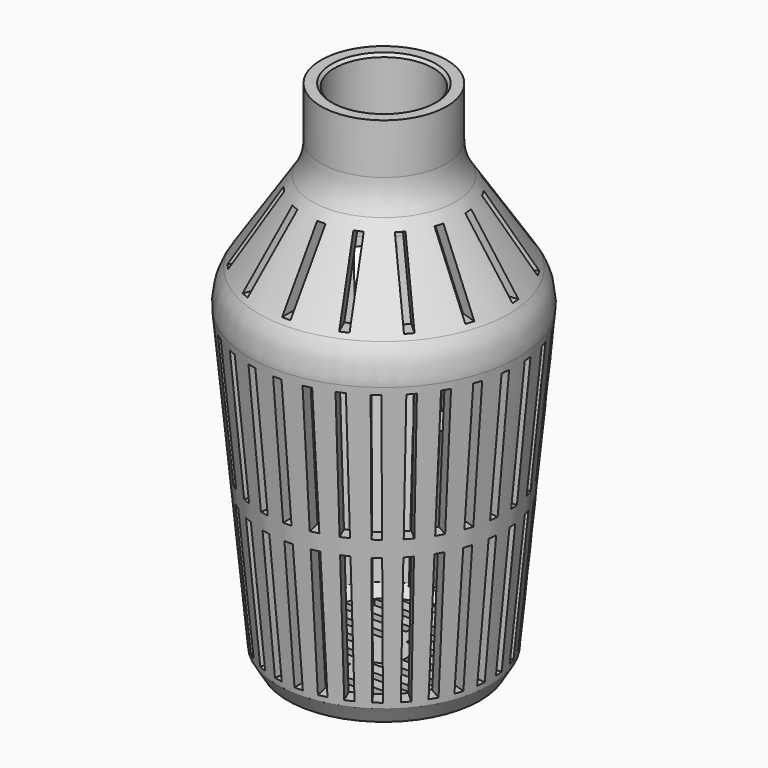
from build123d import *

# Parameters (mm, degrees)
F2_W      = 1.5
F2_H      = 24
F3_DEPTH  = 30
F4_COUNT  = 30
F6_W      = 1.5
F6_H      = 12
F7_DEPTH  = 30
F8_COUNT  = 15
F11_DEPTH = 10
F12_SIZE  = 0.5


with BuildPart() as f1:
    # F0 (on Front) → F1 (revolve)
    with BuildSketch(Plane.XZ):
        with BuildLine():
            Line((0, 2.4), (0, 0))
            Line((0, 0), (17.211747, 0))
            Line((17.211747, 0), (19, 3))
            Line((19, 3), (24, 56.256358))
            ThreePointArc((24, 56.256358), (23.750638, 59.594634), (22.413501, 62.663563))
            Line((22.413501, 62.663563), (12.880282, 77.243906))
            ThreePointArc((12.880282, 77.243906), (11.666233, 79.861299), (11.25, 82.716367))
            Line((11.25, 82.716367), (11.25, 91.737301))
            Line((11.25, 91.737301), (8.85, 91.737301))
            Line((8.85, 91.737301), (8.85, 81.737301))
            Line((8.85, 81.737301), (7.999151, 81.737301))
            ThreePointArc((7.999151, 81.737301), (7.559372, 81.475196), (7.580665, 80.963678))
            Line((7.580665, 80.963678), (20.404769, 61.350173))
            ThreePointArc((20.404769, 61.350173), (21.420993, 59.017786), (21.610508, 56.480697))
            Line((21.610508, 56.480697), (16.720886, 4.4))
            Line((16.720886, 4.4), (15.528717, 2.4))
            Line((15.528717, 2.4), (0, 2.4))
        make_face()
    revolve(axis=Axis((0, 0, 50), (0, 0, 1)))


with BuildPart() as f3:
    # F2 (on Front) → F3 (new body)
    with BuildSketch(Plane.XZ):
        with Locations((0, 16)):
            Rectangle(F2_W, F2_H)
        with Locations((0, 43)):
            Rectangle(F2_W, F2_H)
    extrude(amount=-F3_DEPTH)


with BuildPart() as f4_1:
    # F4: instance of F3
    add(f3.part.rotate(Axis((0, 0, 50), (0, 0, 1)), 1 * 360 / F4_COUNT))


with BuildPart() as f4_2:
    # F4: instance of F3
    add(f3.part.rotate(Axis((0, 0, 50), (0, 0, 1)), 2 * 360 / F4_COUNT))


with BuildPart() as f4_3:
    # F4: instance of F3
    add(f3.part.rotate(Axis((0, 0, 50), (0, 0, 1)), 3 * 360 / F4_COUNT))


with BuildPart() as f4_4:
    # F4: instance of F3
    add(f3.part.rotate(Axis((0, 0, 50), (0, 0, 1)), 4 * 360 / F4_COUNT))


with BuildPart() as f4_5:
    # F4: instance of F3
    add(f3.part.rotate(Axis((0, 0, 50), (0, 0, 1)), 5 * 360 / F4_COUNT))


with BuildPart() as f4_6:
    # F4: instance of F3
    add(f3.part.rotate(Axis((0, 0, 50), (0, 0, 1)), 6 * 360 / F4_COUNT))


with BuildPart() as f4_7:
    # F4: instance of F3
    add(f3.part.rotate(Axis((0, 0, 50), (0, 0, 1)), 7 * 360 / F4_COUNT))


with BuildPart() as f4_8:
    # F4: instance of F3
    add(f3.part.rotate(Axis((0, 0, 50), (0, 0, 1)), 8 * 360 / F4_COUNT))


with BuildPart() as f4_9:
    # F4: instance of F3
    add(f3.part.rotate(Axis((0, 0, 50), (0, 0, 1)), 9 * 360 / F4_COUNT))


with BuildPart() as f4_10:
    # F4: instance of F3
    add(f3.part.rotate(Axis((0, 0, 50), (0, 0, 1)), 10 * 360 / F4_COUNT))


with BuildPart() as f4_11:
    # F4: instance of F3
    add(f3.part.rotate(Axis((0, 0, 50), (0, 0, 1)), 11 * 360 / F4_COUNT))


with BuildPart() as f4_12:
    # F4: instance of F3
    add(f3.part.rotate(Axis((0, 0, 50), (0, 0, 1)), 12 * 360 / F4_COUNT))


with BuildPart() as f4_13:
    # F4: instance of F3
    add(f3.part.rotate(Axis((0, 0, 50), (0, 0, 1)), 13 * 360 / F4_COUNT))


with BuildPart() as f4_14:
    # F4: instance of F3
    add(f3.part.rotate(Axis((0, 0, 50), (0, 0, 1)), 14 * 360 / F4_COUNT))


with BuildPart() as f4_15:
    # F4: instance of F3
    add(f3.part.rotate(Axis((0, 0, 50), (0, 0, 1)), 15 * 360 / F4_COUNT))


with BuildPart() as f4_16:
    # F4: instance of F3
    add(f3.part.rotate(Axis((0, 0, 50), (0, 0, 1)), 16 * 360 / F4_COUNT))


with BuildPart() as f4_17:
    # F4: instance of F3
    add(f3.part.rotate(Axis((0, 0, 50), (0, 0, 1)), 17 * 360 / F4_COUNT))


with BuildPart() as f4_18:
    # F4: instance of F3
    add(f3.part.rotate(Axis((0, 0, 50), (0, 0, 1)), 18 * 360 / F4_COUNT))


with BuildPart() as f4_19:
    # F4: instance of F3
    add(f3.part.rotate(Axis((0, 0, 50), (0, 0, 1)), 19 * 360 / F4_COUNT))


with BuildPart() as f4_20:
    # F4: instance of F3
    add(f3.part.rotate(Axis((0, 0, 50), (0, 0, 1)), 20 * 360 / F4_COUNT))


with BuildPart() as f4_21:
    # F4: instance of F3
    add(f3.part.rotate(Axis((0, 0, 50), (0, 0, 1)), 21 * 360 / F4_COUNT))


with BuildPart() as f4_22:
    # F4: instance of F3
    add(f3.part.rotate(Axis((0, 0, 50), (0, 0, 1)), 22 * 360 / F4_COUNT))


with BuildPart() as f4_23:
    # F4: instance of F3
    add(f3.part.rotate(Axis((0, 0, 50), (0, 0, 1)), 23 * 360 / F4_COUNT))


with BuildPart() as f4_24:
    # F4: instance of F3
    add(f3.part.rotate(Axis((0, 0, 50), (0, 0, 1)), 24 * 360 / F4_COUNT))


with BuildPart() as f4_25:
    # F4: instance of F3
    add(f3.part.rotate(Axis((0, 0, 50), (0, 0, 1)), 25 * 360 / F4_COUNT))


with BuildPart() as f4_26:
    # F4: instance of F3
    add(f3.part.rotate(Axis((0, 0, 50), (0, 0, 1)), 26 * 360 / F4_COUNT))


with BuildPart() as f4_27:
    # F4: instance of F3
    add(f3.part.rotate(Axis((0, 0, 50), (0, 0, 1)), 27 * 360 / F4_COUNT))


with BuildPart() as f4_28:
    # F4: instance of F3
    add(f3.part.rotate(Axis((0, 0, 50), (0, 0, 1)), 28 * 360 / F4_COUNT))


with BuildPart() as f4_29:
    # F4: instance of F3
    add(f3.part.rotate(Axis((0, 0, 50), (0, 0, 1)), 29 * 360 / F4_COUNT))


with BuildPart() as f1_1:
    add(f1.part)

    # F5: cut F3, F4_1, F4_2, F4_3, F4_4, F4_5, F4_6, F4_7, F4_8, F4_9, F4_10, F4_11, F4_12, F4_13, F4_14, F4_15, F4_16, F4_17, F4_18, F4_19, F4_20, F4_21, F4_22, F4_23, F4_24, F4_25, F4_26, F4_27, F4_28, F4_29
    add(f3.part, mode=Mode.SUBTRACT)
    add(f4_1.part, mode=Mode.SUBTRACT)
    add(f4_2.part, mode=Mode.SUBTRACT)
    add(f4_3.part, mode=Mode.SUBTRACT)
    add(f4_4.part, mode=Mode.SUBTRACT)
    add(f4_5.part, mode=Mode.SUBTRACT)
    add(f4_6.part, mode=Mode.SUBTRACT)
    add(f4_7.part, mode=Mode.SUBTRACT)
    add(f4_8.part, mode=Mode.SUBTRACT)
    add(f4_9.part, mode=Mode.SUBTRACT)
    add(f4_10.part, mode=Mode.SUBTRACT)
    add(f4_11.part, mode=Mode.SUBTRACT)
    add(f4_12.part, mode=Mode.SUBTRACT)
    add(f4_13.part, mode=Mode.SUBTRACT)
    add(f4_14.part, mode=Mode.SUBTRACT)
    add(f4_15.part, mode=Mode.SUBTRACT)
    add(f4_16.part, mode=Mode.SUBTRACT)
    add(f4_17.part, mode=Mode.SUBTRACT)
    add(f4_18.part, mode=Mode.SUBTRACT)
    add(f4_19.part, mode=Mode.SUBTRACT)
    add(f4_20.part, mode=Mode.SUBTRACT)
    add(f4_21.part, mode=Mode.SUBTRACT)
    add(f4_22.part, mode=Mode.SUBTRACT)
    add(f4_23.part, mode=Mode.SUBTRACT)
    add(f4_24.part, mode=Mode.SUBTRACT)
    add(f4_25.part, mode=Mode.SUBTRACT)
    add(f4_26.part, mode=Mode.SUBTRACT)
    add(f4_27.part, mode=Mode.SUBTRACT)
    add(f4_28.part, mode=Mode.SUBTRACT)
    add(f4_29.part, mode=Mode.SUBTRACT)


with BuildPart() as f7:
    # F6 (on Front) → F7 (new body)
    with BuildSketch(Plane.XZ):
        with Locations((0, 69.5)):
            Rectangle(F6_W, F6_H)
    extrude(amount=F7_DEPTH)


with BuildPart() as f8_1:
    # F8: instance of F7
    add(f7.part.rotate(Axis((0, 0, 50), (0, 0, 1)), 1 * 360 / F8_COUNT))


with BuildPart() as f8_2:
    # F8: instance of F7
    add(f7.part.rotate(Axis((0, 0, 50), (0, 0, 1)), 2 * 360 / F8_COUNT))


with BuildPart() as f8_3:
    # F8: instance of F7
    add(f7.part.rotate(Axis((0, 0, 50), (0, 0, 1)), 3 * 360 / F8_COUNT))


with BuildPart() as f8_4:
    # F8: instance of F7
    add(f7.part.rotate(Axis((0, 0, 50), (0, 0, 1)), 4 * 360 / F8_COUNT))


with BuildPart() as f8_5:
    # F8: instance of F7
    add(f7.part.rotate(Axis((0, 0, 50), (0, 0, 1)), 5 * 360 / F8_COUNT))


with BuildPart() as f8_6:
    # F8: instance of F7
    add(f7.part.rotate(Axis((0, 0, 50), (0, 0, 1)), 6 * 360 / F8_COUNT))


with BuildPart() as f8_7:
    # F8: instance of F7
    add(f7.part.rotate(Axis((0, 0, 50), (0, 0, 1)), 7 * 360 / F8_COUNT))


with BuildPart() as f8_8:
    # F8: instance of F7
    add(f7.part.rotate(Axis((0, 0, 50), (0, 0, 1)), 8 * 360 / F8_COUNT))


with BuildPart() as f8_9:
    # F8: instance of F7
    add(f7.part.rotate(Axis((0, 0, 50), (0, 0, 1)), 9 * 360 / F8_COUNT))


with BuildPart() as f8_10:
    # F8: instance of F7
    add(f7.part.rotate(Axis((0, 0, 50), (0, 0, 1)), 10 * 360 / F8_COUNT))


with BuildPart() as f8_11:
    # F8: instance of F7
    add(f7.part.rotate(Axis((0, 0, 50), (0, 0, 1)), 11 * 360 / F8_COUNT))


with BuildPart() as f8_12:
    # F8: instance of F7
    add(f7.part.rotate(Axis((0, 0, 50), (0, 0, 1)), 12 * 360 / F8_COUNT))


with BuildPart() as f8_13:
    # F8: instance of F7
    add(f7.part.rotate(Axis((0, 0, 50), (0, 0, 1)), 13 * 360 / F8_COUNT))


with BuildPart() as f8_14:
    # F8: instance of F7
    add(f7.part.rotate(Axis((0, 0, 50), (0, 0, 1)), 14 * 360 / F8_COUNT))


with BuildPart() as f1_2:
    add(f1_1.part)

    # F9: cut F7, F8_1, F8_2, F8_3, F8_4, F8_5, F8_6, F8_7, F8_8, F8_9, F8_10, F8_11, F8_12, F8_13, F8_14
    add(f7.part, mode=Mode.SUBTRACT)
    add(f8_1.part, mode=Mode.SUBTRACT)
    add(f8_2.part, mode=Mode.SUBTRACT)
    add(f8_3.part, mode=Mode.SUBTRACT)
    add(f8_4.part, mode=Mode.SUBTRACT)
    add(f8_5.part, mode=Mode.SUBTRACT)
    add(f8_6.part, mode=Mode.SUBTRACT)
    add(f8_7.part, mode=Mode.SUBTRACT)
    add(f8_8.part, mode=Mode.SUBTRACT)
    add(f8_9.part, mode=Mode.SUBTRACT)
    add(f8_10.part, mode=Mode.SUBTRACT)
    add(f8_11.part, mode=Mode.SUBTRACT)
    add(f8_12.part, mode=Mode.SUBTRACT)
    add(f8_13.part, mode=Mode.SUBTRACT)
    add(f8_14.part, mode=Mode.SUBTRACT)

    # F10 (on face) → F11 (cut)
    with BuildSketch(Plane(origin=(0, 0, 0), x_dir=(1, 0, 0), z_dir=(0, 0, -1))):
        with BuildLine():
            Line((-3.929058, 0.75), (-15.481844, 0.75))
            ThreePointArc((-15.481844, 0.75), (-15.5, 0), (-15.481844, -0.75))
            Line((-15.481844, -0.75), (-3.929058, -0.75))
            ThreePointArc((-3.929058, -0.75), (-4, 0), (-3.929058, 0.75))
        make_face()
        with BuildLine():
            ThreePointArc((2.904738, -2.75), (2.031506, -3.44572), (1, -3.872983))
            Line((1, -3.872983), (1, -4.25))
            Line((1, -4.25), (14.905955, -4.25))
            ThreePointArc((14.905955, -4.25), (15.098665, -3.504326), (15.254098, -2.75))
            Line((15.254098, -2.75), (2.904738, -2.75))
        make_face()
        with BuildLine():
            ThreePointArc((-14.905955, 4.25), (-15.098665, 3.504326), (-15.254098, 2.75))
            Line((-15.254098, 2.75), (-2.904738, 2.75))
            ThreePointArc((-2.904738, 2.75), (-2.031506, 3.44572), (-1, 3.872983))
            Line((-1, 3.872983), (-1, 4.25))
            Line((-1, 4.25), (-14.905955, 4.25))
        make_face()
        with BuildLine():
            ThreePointArc((-13.423394, 7.75), (-13.824086, 7.010325), (-14.184058, 6.25))
            Line((-14.184058, 6.25), (-1, 6.25))
            Line((-1, 6.25), (-1, 7.75))
            Line((-1, 7.75), (-13.423394, 7.75))
        make_face()
        with BuildLine():
            ThreePointArc((-10.662434, 11.25), (-11.380646, 10.522875), (-12.049378, 9.75))
            Line((-12.049378, 9.75), (-1, 9.75))
            Line((-1, 9.75), (-1, 11.25))
            Line((-1, 11.25), (-10.662434, 11.25))
        make_face()
        with BuildLine():
            ThreePointArc((-4.76314, 14.75), (-6.446772, 14.095713), (-8.042854, 13.25))
            Line((-8.042854, 13.25), (-1, 13.25))
            Line((-1, 13.25), (-1, 14.75))
            Line((-1, 14.75), (-4.76314, 14.75))
        make_face()
        with BuildLine():
            Line((15.481844, 0.75), (3.929058, 0.75))
            ThreePointArc((3.929058, 0.75), (4, 0), (3.929058, -0.75))
            Line((3.929058, -0.75), (15.481844, -0.75))
            ThreePointArc((15.481844, -0.75), (15.5, 0), (15.481844, 0.75))
        make_face()
        with BuildLine():
            ThreePointArc((1, 3.872983), (2.031506, 3.44572), (2.904738, 2.75))
            Line((2.904738, 2.75), (15.254098, 2.75))
            ThreePointArc((15.254098, 2.75), (15.098665, 3.504326), (14.905955, 4.25))
            Line((14.905955, 4.25), (1, 4.25))
            Line((1, 4.25), (1, 3.872983))
        make_face()
        with BuildLine():
            Line((-2.904738, -2.75), (-15.254098, -2.75))
            ThreePointArc((-15.254098, -2.75), (-15.098665, -3.504326), (-14.905955, -4.25))
            Line((-14.905955, -4.25), (-1, -4.25))
            Line((-1, -4.25), (-1, -3.872983))
            ThreePointArc((-1, -3.872983), (-2.031506, -3.44572), (-2.904738, -2.75))
        make_face()
        with BuildLine():
            Line((-1, -6.25), (-14.184058, -6.25))
            ThreePointArc((-14.184058, -6.25), (-13.824086, -7.010325), (-13.423394, -7.75))
            Line((-13.423394, -7.75), (-1, -7.75))
            Line((-1, -7.75), (-1, -6.25))
        make_face()
        with BuildLine():
            Line((-1, -9.75), (-12.049378, -9.75))
            ThreePointArc((-12.049378, -9.75), (-11.380646, -10.522875), (-10.662434, -11.25))
            Line((-10.662434, -11.25), (-1, -11.25))
            Line((-1, -11.25), (-1, -9.75))
        make_face()
        with BuildLine():
            Line((-1, -13.25), (-8.042854, -13.25))
            ThreePointArc((-8.042854, -13.25), (-6.446772, -14.095713), (-4.76314, -14.75))
            Line((-4.76314, -14.75), (-1, -14.75))
            Line((-1, -14.75), (-1, -13.25))
        make_face()
        with BuildLine():
            Line((14.184058, -6.25), (1, -6.25))
            Line((1, -6.25), (1, -7.75))
            Line((1, -7.75), (13.423394, -7.75))
            ThreePointArc((13.423394, -7.75), (13.824086, -7.010325), (14.184058, -6.25))
        make_face()
        with BuildLine():
            Line((12.049378, -9.75), (1, -9.75))
            Line((1, -9.75), (1, -11.25))
            Line((1, -11.25), (10.662434, -11.25))
            ThreePointArc((10.662434, -11.25), (11.380646, -10.522875), (12.049378, -9.75))
        make_face()
        with BuildLine():
            Line((8.042854, -13.25), (1, -13.25))
            Line((1, -13.25), (1, -14.75))
            Line((1, -14.75), (4.76314, -14.75))
            ThreePointArc((4.76314, -14.75), (6.446772, -14.095713), (8.042854, -13.25))
        make_face()
        with BuildLine():
            Line((1, 7.75), (1, 6.25))
            Line((1, 6.25), (14.184058, 6.25))
            ThreePointArc((14.184058, 6.25), (13.824086, 7.010325), (13.423394, 7.75))
            Line((13.423394, 7.75), (1, 7.75))
        make_face()
        with BuildLine():
            Line((1, 11.25), (1, 9.75))
            Line((1, 9.75), (12.049378, 9.75))
            ThreePointArc((12.049378, 9.75), (11.380646, 10.522875), (10.662434, 11.25))
            Line((10.662434, 11.25), (1, 11.25))
        make_face()
        with BuildLine():
            Line((1, 14.75), (1, 13.25))
            Line((1, 13.25), (8.042854, 13.25))
            ThreePointArc((8.042854, 13.25), (6.446772, 14.095713), (4.76314, 14.75))
            Line((4.76314, 14.75), (1, 14.75))
        make_face()
    extrude(amount=-F11_DEPTH, mode=Mode.SUBTRACT)

    # F12
    f12_edges = [f1_2.edges().sort_by_distance(p)[0] for p in [
        (-8.85, 0, 91.737301),
    ]]
    chamfer(f12_edges, length=F12_SIZE)


solid = f1_2.part
